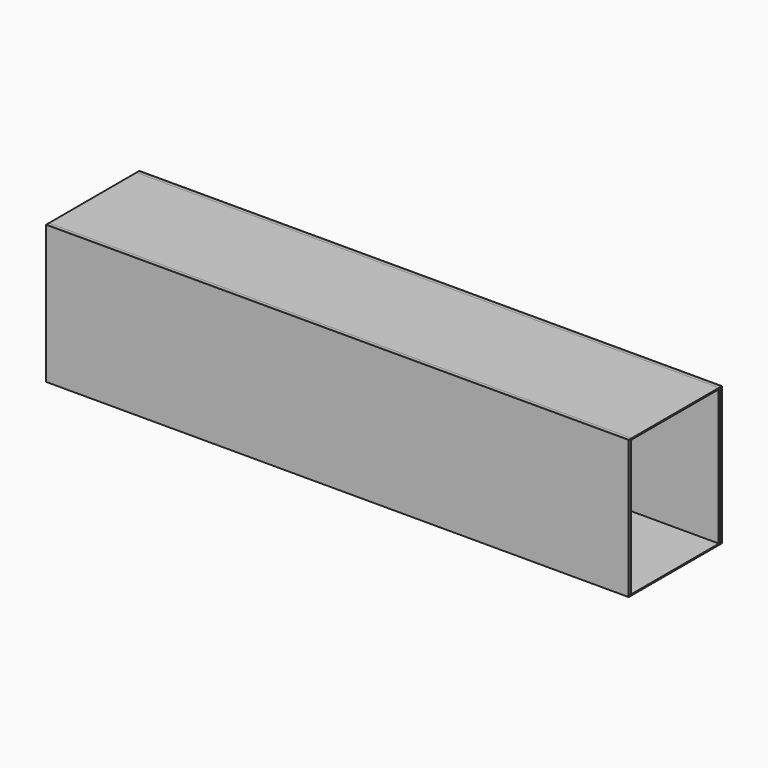
from build123d import *

# Parameters (mm, degrees)
F0_W     = 12192
F0_H     = 2895.6
F1_DEPTH = 2438.4
F2_T     = -25.4
F4_W     = 12176.3525009155
F4_H     = 2880.8488845825
F5_DEPTH = 50.8


with BuildPart() as f1:
    # F0 (on Front) → F1 (new body)
    with BuildSketch(Plane.XZ):
        with Locations((1720.0159610172, -1447.8)):
            Rectangle(F0_W, F0_H)
    extrude(amount=F1_DEPTH)

    # F2
    f2_openings = [f1.faces().sort_by_distance(p)[0] for p in [
        (7816.015961, -1219.2, -1447.8),
    ]]
    offset(amount=F2_T, openings=f2_openings)


with BuildPart() as f5:
    # F4 (on offset) → F5 (new body)
    with BuildSketch(Plane.XZ.offset(25.4)):
        with Locations((1715.4521942139, -1440.4244422913)):
            Rectangle(F4_W, F4_H)
    extrude(amount=F5_DEPTH)


with BuildPart() as f7_1:
    # F7: instance of F5
    add(f5.part.mirror(Plane.XZ.offset(1219.2)))


solid = Compound([f1.part, f5.part, f7_1.part])
